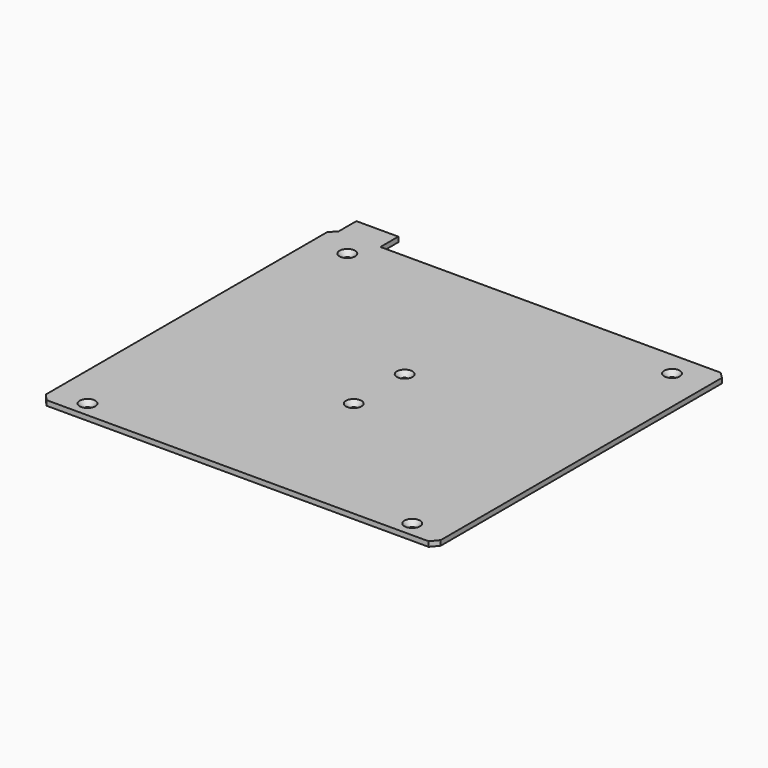
from build123d import *

# Parameters (mm, degrees)
F0_R     = 2
F1_DEPTH = 3.2
F2_SIZE  = 3


with BuildPart() as f1:
    # F0 (on Top) → F1 (new body)
    with BuildSketch(Plane.XY):
        Polygon((-96, 131.9), (-123, 131.9), (-123, 117.5), (-127, 113.5), (-127, -112.732986), (-123, -117.5), (123, -117.5), (127, -112.732986), (127, 113.5), (123, 117.5), (-96, 117.5), align=None)
        with Locations((-104.5, -107.5)):
            Circle(F0_R, mode=Mode.SUBTRACT)
        with Locations((104.5, -107.5)):
            Circle(F0_R, mode=Mode.SUBTRACT)
        with Locations((0, -24)):
            Circle(F0_R, mode=Mode.SUBTRACT)
        with Locations((-104.5, 101.5)):
            Circle(F0_R, mode=Mode.SUBTRACT)
        with Locations((0, 17)):
            Circle(F0_R, mode=Mode.SUBTRACT)
        with Locations((104.5, 101.5)):
            Circle(F0_R, mode=Mode.SUBTRACT)
    extrude(amount=F1_DEPTH)

    # F2
    f2_edges = [f1.edges().sort_by_distance(p)[0] for p in [
        (-106.5, 101.5, 3.2),
        (-2, 17, 3.2),
        (-2, -24, 3.2),
        (102.5, 101.5, 3.2),
        (102.5, -107.5, 3.2),
        (-106.5, -107.5, 3.2),
    ]]
    chamfer(f2_edges, length=F2_SIZE)


solid = f1.part
